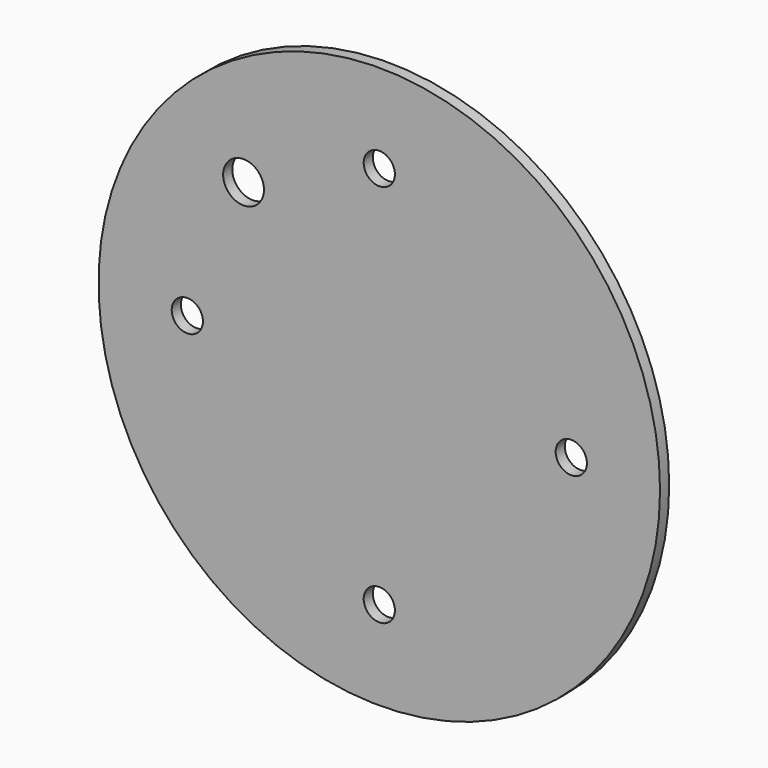
from build123d import *

# Parameters (mm, degrees)
F0_R     = 117
F0_R_2   = 6.5
F0_R_3   = 8.5
F1_DEPTH = 4.763


with BuildPart() as f1:
    # F0 (on Front) → F1 (new body)
    with BuildSketch(Plane.XZ):
        Circle(F0_R)
        with Locations((0, -80)):
            Circle(F0_R_2, mode=Mode.SUBTRACT)
        with Locations((-80, 0)):
            Circle(F0_R_2, mode=Mode.SUBTRACT)
        with Locations((-56.568542, 56.568542)):
            Circle(F0_R_3, mode=Mode.SUBTRACT)
        with Locations((80, 0)):
            Circle(F0_R_2, mode=Mode.SUBTRACT)
        with Locations((0, 80)):
            Circle(F0_R_2, mode=Mode.SUBTRACT)
    extrude(amount=F1_DEPTH)


solid = f1.part
